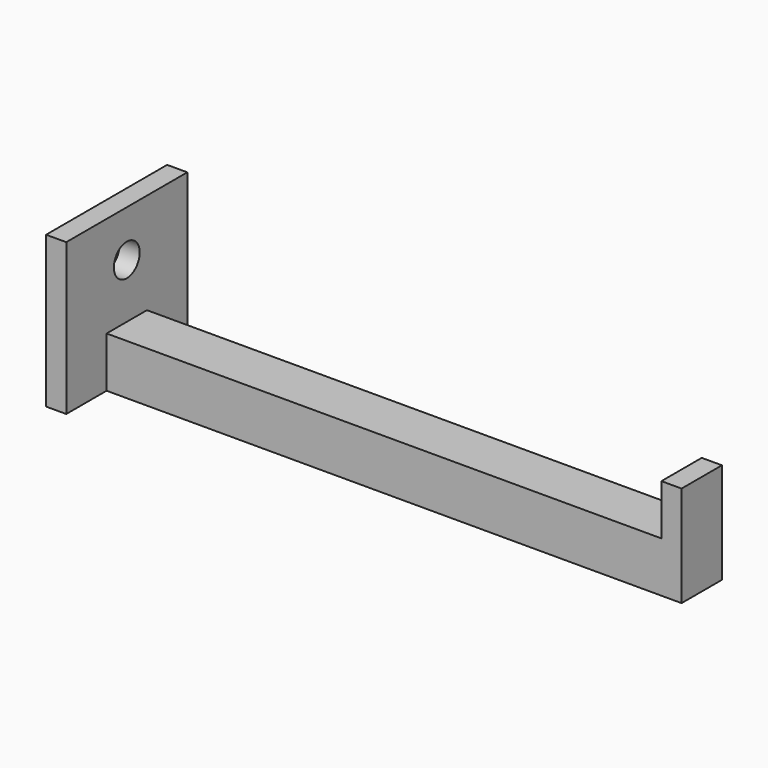
from build123d import *

# Parameters (mm, degrees)
F0_W          = 55
F0_H          = 5
F1_DEPTH      = 5
F2_DEPTH      = 10
F2_DEPTH_BACK = 5
F4_D          = 3.2
F4_DEPTH      = 2.001


with BuildPart() as f1:
    # F0 (on Front) → F1 (new body)
    with BuildSketch(Plane.XZ):
        with Locations((29.5, 2.5)):
            Rectangle(F0_W, F0_H)
        Polygon((57, 5), (57, 0), (59, 0), (59, 10), (57, 10), align=None)
    extrude(amount=F1_DEPTH)

    # F0 (on Front) → F2 (join, two sides)
    with BuildSketch(Plane.XZ) as f2_sk:
        Polygon((0, 15), (0, 0), (2, 0), (2, 5), (2, 15), align=None)
    extrude(amount=F2_DEPTH)
    extrude(f2_sk.sketch, amount=-F2_DEPTH_BACK)

    # F4 (through all, one way)
    with BuildSketch(Plane.YZ.offset(2)):
        with Locations((-2.5, 10.4)):
            Circle(F4_D / 2)
    extrude(amount=-F4_DEPTH, mode=Mode.SUBTRACT)


solid = f1.part
